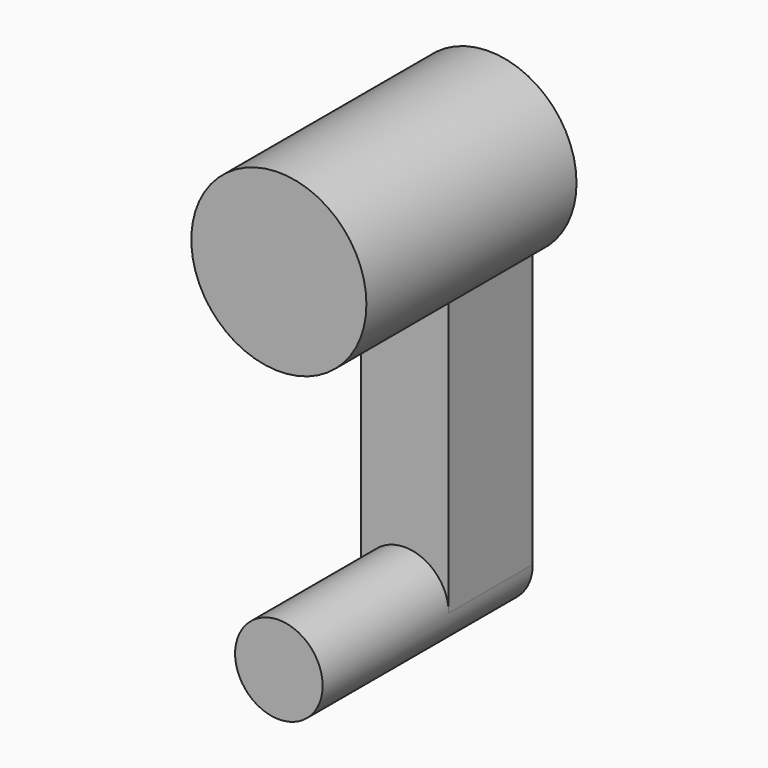
from build123d import *

# Parameters (mm, degrees)
F0_W     = 5
F0_H     = 20
F1_DEPTH = 6
F2_R     = 5
F2_R_2   = 2.5
F3_DEPTH = 15


with BuildPart() as f1:
    # F0 (on Front) → F1 (new body)
    with BuildSketch(Plane.XZ):
        with Locations((2.5, 10)):
            Rectangle(F0_W, F0_H)
    extrude(amount=F1_DEPTH)

    # F2 (on Front) → F3 (join)
    with BuildSketch(Plane.XZ):
        with Locations((2.5, 20)):
            Circle(F2_R)
        with Locations((2.5, 0)):
            Circle(F2_R_2)
    extrude(amount=F3_DEPTH)


solid = f1.part
